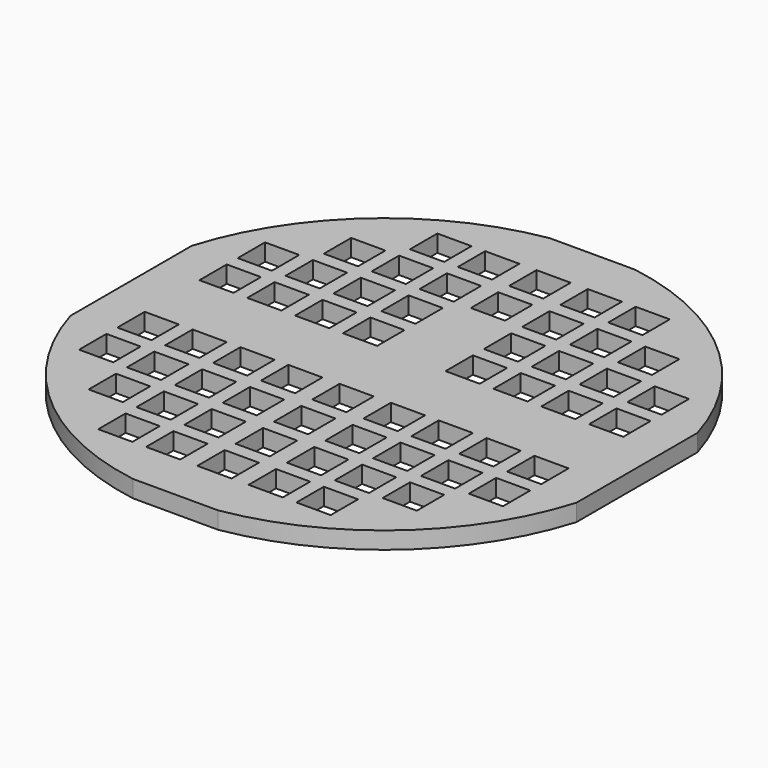
from build123d import *

# Parameters (mm, degrees)
F0_W     = 10
F0_H     = 10
F1_DEPTH = 5


with BuildPart() as f1:
    # F0 (on Top) → F1 (new body)
    with BuildSketch(Plane.XY):
        with BuildLine():
            Line((-74.008312, 22.143448), (-74.008312, -22.143448))
            ThreePointArc((-74.008312, -22.143448), (-50.993701, -58.027623), (-12.449598, -76.240213))
            Line((-12.449598, -76.240213), (12.449598, -76.240213))
            ThreePointArc((12.449598, -76.240213), (50.993701, -58.027623), (74.008312, -22.143448))
            Line((74.008312, -22.143448), (74.008312, 22.143448))
            ThreePointArc((74.008312, 22.143448), (50.993701, 58.027623), (12.449598, 76.240213))
            Line((12.449598, 76.240213), (-12.449598, 76.240213))
            ThreePointArc((-12.449598, 76.240213), (-50.993701, 58.027623), (-74.008312, 22.143448))
        make_face()
        with Locations((-43, -43)):
            Rectangle(F0_W, F0_H, mode=Mode.SUBTRACT)
        with Locations((-29, -57)):
            Rectangle(F0_W, F0_H, mode=Mode.SUBTRACT)
        with Locations((-29, -43)):
            Rectangle(F0_W, F0_H, mode=Mode.SUBTRACT)
        with Locations((-15, -57)):
            Rectangle(F0_W, F0_H, mode=Mode.SUBTRACT)
        with Locations((-15, -43)):
            Rectangle(F0_W, F0_H, mode=Mode.SUBTRACT)
        with Locations((-57, -29)):
            Rectangle(F0_W, F0_H, mode=Mode.SUBTRACT)
        with Locations((-43, -29)):
            Rectangle(F0_W, F0_H, mode=Mode.SUBTRACT)
        with Locations((-57, -15)):
            Rectangle(F0_W, F0_H, mode=Mode.SUBTRACT)
        with Locations((-43, -15)):
            Rectangle(F0_W, F0_H, mode=Mode.SUBTRACT)
        with Locations((-29, -29)):
            Rectangle(F0_W, F0_H, mode=Mode.SUBTRACT)
        with Locations((-15, -29)):
            Rectangle(F0_W, F0_H, mode=Mode.SUBTRACT)
        with Locations((-29, -15)):
            Rectangle(F0_W, F0_H, mode=Mode.SUBTRACT)
        with Locations((-15, -15)):
            Rectangle(F0_W, F0_H, mode=Mode.SUBTRACT)
        with Locations((0, -57)):
            Rectangle(F0_W, F0_H, mode=Mode.SUBTRACT)
        with Locations((15, -57)):
            Rectangle(F0_W, F0_H, mode=Mode.SUBTRACT)
        with Locations((0, -43)):
            Rectangle(F0_W, F0_H, mode=Mode.SUBTRACT)
        with Locations((15, -43)):
            Rectangle(F0_W, F0_H, mode=Mode.SUBTRACT)
        with Locations((29, -57)):
            Rectangle(F0_W, F0_H, mode=Mode.SUBTRACT)
        with Locations((29, -43)):
            Rectangle(F0_W, F0_H, mode=Mode.SUBTRACT)
        with Locations((43, -43)):
            Rectangle(F0_W, F0_H, mode=Mode.SUBTRACT)
        with Locations((0, -29)):
            Rectangle(F0_W, F0_H, mode=Mode.SUBTRACT)
        with Locations((15, -29)):
            Rectangle(F0_W, F0_H, mode=Mode.SUBTRACT)
        with Locations((29, -29)):
            Rectangle(F0_W, F0_H, mode=Mode.SUBTRACT)
        with Locations((0, -15)):
            Rectangle(F0_W, F0_H, mode=Mode.SUBTRACT)
        with Locations((15, -15)):
            Rectangle(F0_W, F0_H, mode=Mode.SUBTRACT)
        with Locations((29, -15)):
            Rectangle(F0_W, F0_H, mode=Mode.SUBTRACT)
        with Locations((43, -29)):
            Rectangle(F0_W, F0_H, mode=Mode.SUBTRACT)
        with Locations((57, -29)):
            Rectangle(F0_W, F0_H, mode=Mode.SUBTRACT)
        with Locations((43, -15)):
            Rectangle(F0_W, F0_H, mode=Mode.SUBTRACT)
        with Locations((57, -15)):
            Rectangle(F0_W, F0_H, mode=Mode.SUBTRACT)
        with Locations((-57, 15)):
            Rectangle(F0_W, F0_H, mode=Mode.SUBTRACT)
        with Locations((-43, 15)):
            Rectangle(F0_W, F0_H, mode=Mode.SUBTRACT)
        with Locations((-57, 29)):
            Rectangle(F0_W, F0_H, mode=Mode.SUBTRACT)
        with Locations((-43, 29)):
            Rectangle(F0_W, F0_H, mode=Mode.SUBTRACT)
        with Locations((-29, 15)):
            Rectangle(F0_W, F0_H, mode=Mode.SUBTRACT)
        with Locations((-15, 15)):
            Rectangle(F0_W, F0_H, mode=Mode.SUBTRACT)
        with Locations((-29, 29)):
            Rectangle(F0_W, F0_H, mode=Mode.SUBTRACT)
        with Locations((-15, 29)):
            Rectangle(F0_W, F0_H, mode=Mode.SUBTRACT)
        with Locations((-43, 43)):
            Rectangle(F0_W, F0_H, mode=Mode.SUBTRACT)
        with Locations((-29, 43)):
            Rectangle(F0_W, F0_H, mode=Mode.SUBTRACT)
        with Locations((-29, 57)):
            Rectangle(F0_W, F0_H, mode=Mode.SUBTRACT)
        with Locations((-15, 43)):
            Rectangle(F0_W, F0_H, mode=Mode.SUBTRACT)
        with Locations((-15, 57)):
            Rectangle(F0_W, F0_H, mode=Mode.SUBTRACT)
        with Locations((15, 15)):
            Rectangle(F0_W, F0_H, mode=Mode.SUBTRACT)
        with Locations((29, 15)):
            Rectangle(F0_W, F0_H, mode=Mode.SUBTRACT)
        with Locations((15, 29)):
            Rectangle(F0_W, F0_H, mode=Mode.SUBTRACT)
        with Locations((29, 29)):
            Rectangle(F0_W, F0_H, mode=Mode.SUBTRACT)
        with Locations((43, 15)):
            Rectangle(F0_W, F0_H, mode=Mode.SUBTRACT)
        with Locations((57, 15)):
            Rectangle(F0_W, F0_H, mode=Mode.SUBTRACT)
        with Locations((43, 29)):
            Rectangle(F0_W, F0_H, mode=Mode.SUBTRACT)
        with Locations((57, 29)):
            Rectangle(F0_W, F0_H, mode=Mode.SUBTRACT)
        with Locations((0, 43)):
            Rectangle(F0_W, F0_H, mode=Mode.SUBTRACT)
        with Locations((15, 43)):
            Rectangle(F0_W, F0_H, mode=Mode.SUBTRACT)
        with Locations((0, 57)):
            Rectangle(F0_W, F0_H, mode=Mode.SUBTRACT)
        with Locations((15, 57)):
            Rectangle(F0_W, F0_H, mode=Mode.SUBTRACT)
        with Locations((29, 43)):
            Rectangle(F0_W, F0_H, mode=Mode.SUBTRACT)
        with Locations((29, 57)):
            Rectangle(F0_W, F0_H, mode=Mode.SUBTRACT)
        with Locations((43, 43)):
            Rectangle(F0_W, F0_H, mode=Mode.SUBTRACT)
    extrude(amount=F1_DEPTH)


solid = f1.part
